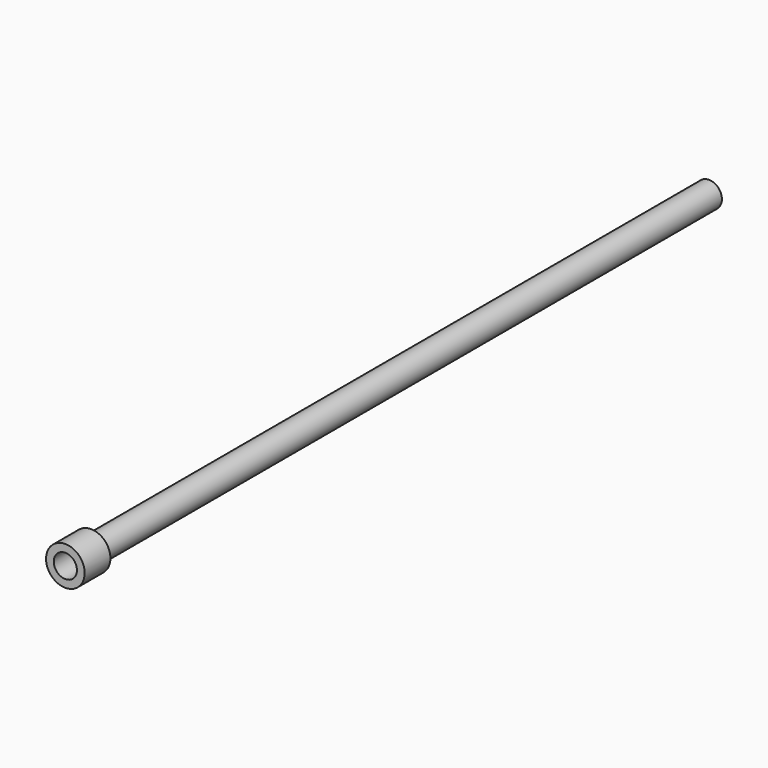
from build123d import *

# Parameters (mm, degrees)
F0_R     = 10
F1_DEPTH = 600
F2_R     = 15
F2_R_2   = 10
F3_DEPTH = 25
F4_R     = 9
F5_DEPTH = 700


with BuildPart() as f1:
    # F0 (on Front) → F1 (new body)
    with BuildSketch(Plane.XZ):
        Circle(F0_R)
    extrude(amount=F1_DEPTH)

    # F2 (on face) → F3 (join)
    with BuildSketch(Plane.XZ.offset(600)):
        Circle(F2_R)
        Circle(F2_R_2, mode=Mode.SUBTRACT)
        Circle(F2_R_2)
    extrude(amount=F3_DEPTH)

    # F4 (on face) → F5 (cut)
    with BuildSketch(Plane.XZ.offset(625)):
        Circle(F4_R)
        Circle(F4_R)
    extrude(amount=-F5_DEPTH, mode=Mode.SUBTRACT)


solid = f1.part
